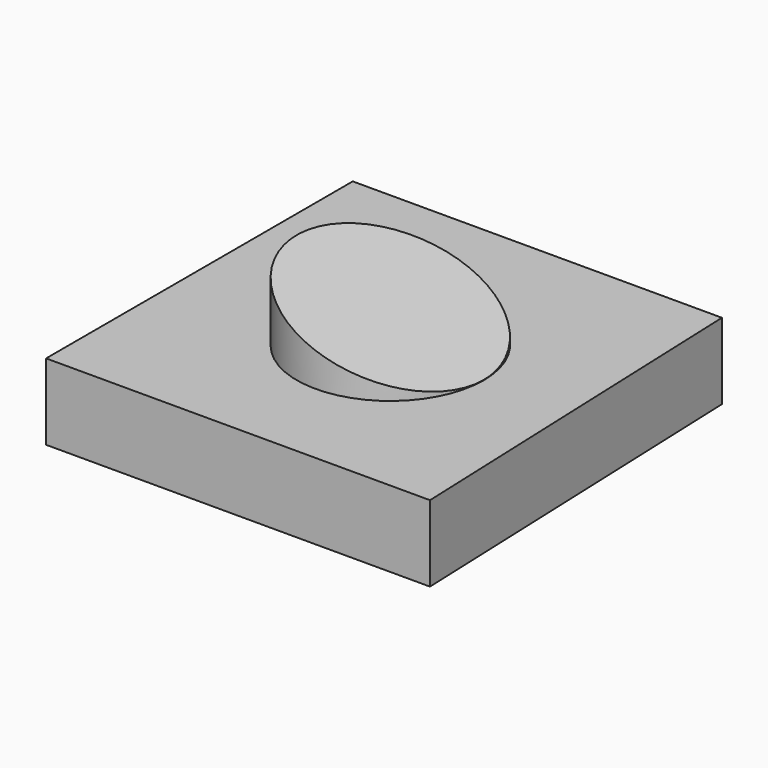
from build123d import *

# Parameters (mm, degrees)
F1_DEPTH = 28.702
F2_R     = 35.250577
F3_DEPTH = 25.4
F5_DEPTH = 144.567961


with BuildPart() as f1:
    # F0 (on Top) → F1 (new body)
    with BuildSketch(Plane.XY):
        Polygon((65.11163, 74.948795), (-74.116208, 74.948795), (-74.116208, -69.618165), (70.669487, -69.618165), align=None)
    extrude(amount=F1_DEPTH)

    # F2 (on face) → F3 (join)
    with BuildSketch(Plane.XY.offset(28.702)):
        Circle(F2_R)
    extrude(amount=F3_DEPTH)

    # F4 (on face) → F5 (cut, through all)
    with BuildSketch(Plane.XZ.offset(69.618165)):
        Polygon((35.616178, 54.999514), (-38.837059, 55.3034), (35.616178, 28.702), align=None)
    extrude(amount=-F5_DEPTH, mode=Mode.SUBTRACT)


solid = f1.part
